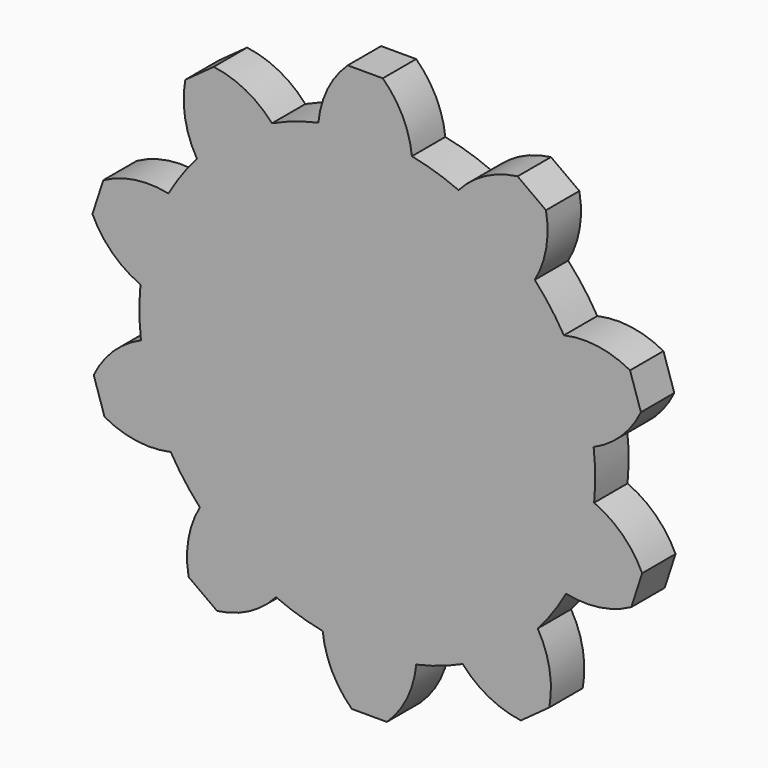
from build123d import *

# Parameters (mm, degrees)
F2_DEPTH = 12.7
F1_R     = 69.346694
F3_DEPTH = 12.7
F4_COUNT = 10


with BuildPart() as f2:
    # F0 (on Front) → F2 (new body)
    with BuildSketch(Plane.XZ):
        with BuildLine():
            Line((22.197887, 39.416865), (50.918356, 39.377556))
            ThreePointArc((50.918356, 39.377556), (48.579291, 50.769767), (41.914459, 60.300438))
            Line((41.914459, 60.300438), (31.243502, 60.300438))
            ThreePointArc((31.243502, 60.300438), (24.563893, 50.792859), (22.197887, 39.416865))
        make_face()
    extrude(amount=F2_DEPTH)

    # F1 (on Front) → F3 (join)
    with BuildSketch(Plane.XZ):
        with Locations((37.202269, -25.696449)):
            Circle(F1_R)
    extrude(amount=F3_DEPTH)

    # F4: F2 ×10 about axis
    f4_axis = Axis((37.202269, 0, -25.696449), (0, 1, 0))


with BuildPart() as f2_1:
    add(f2.part)
    for i in range(1, F4_COUNT):
        add(f2.part.rotate(f4_axis, i * 360 / F4_COUNT))


solid = f2_1.part
